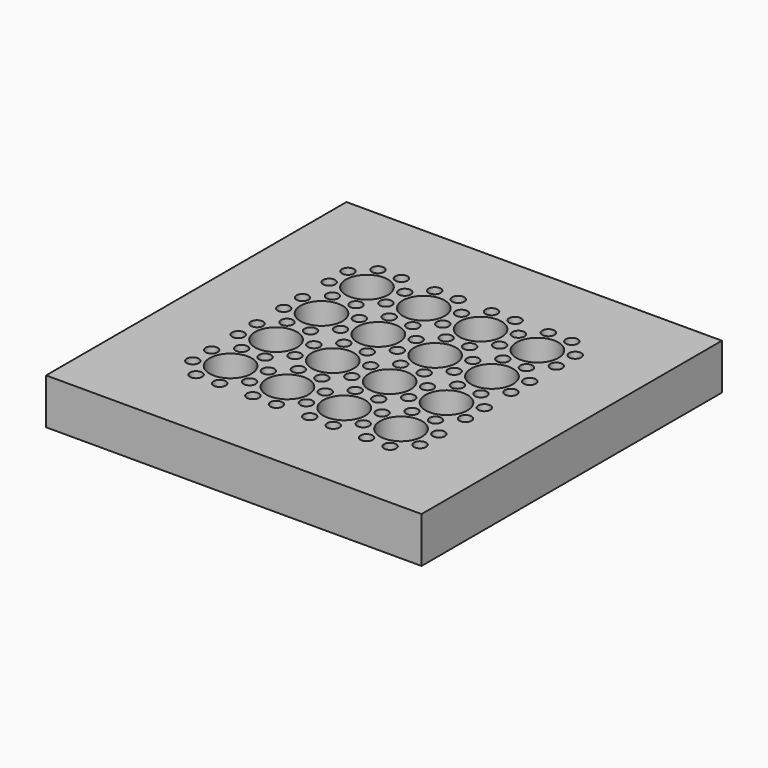
from build123d import *

# Parameters (mm, degrees)
F0_W     = 15.2
F0_H     = 15.2
F0_R     = 0.244751
F0_R_2   = 0.85
F1_DEPTH = 1.85
F2_R     = 0.85
F3_DEPTH = 0.15


with BuildPart() as f1:
    # F0 (on Top) → F1 (new body)
    with BuildSketch(Plane.XY):
        with Locations((3.45, 3.45)):
            Rectangle(F0_W, F0_H)
        with Locations((-0.476346, -1.15)):
            Circle(F0_R, mode=Mode.SUBTRACT)
        with Locations((-1.15, -0.476346)):
            Circle(F0_R, mode=Mode.SUBTRACT)
        with Locations((0.476346, -1.15)):
            Circle(F0_R, mode=Mode.SUBTRACT)
        with Locations((1.15, -0.476346)):
            Circle(F0_R, mode=Mode.SUBTRACT)
        with Locations((1.823654, -1.15)):
            Circle(F0_R, mode=Mode.SUBTRACT)
        with Locations((2.776346, -1.15)):
            Circle(F0_R, mode=Mode.SUBTRACT)
        with Locations((-1.15, 0.476346)):
            Circle(F0_R, mode=Mode.SUBTRACT)
        with Locations((-0.476346, 1.15)):
            Circle(F0_R, mode=Mode.SUBTRACT)
        with Locations((-1.15, 1.823654)):
            Circle(F0_R, mode=Mode.SUBTRACT)
        with Locations((-1.15, 2.776346)):
            Circle(F0_R, mode=Mode.SUBTRACT)
        Circle(F0_R_2, mode=Mode.SUBTRACT)
        with Locations((1.15, 0.476346)):
            Circle(F0_R, mode=Mode.SUBTRACT)
        with Locations((0.476346, 1.15)):
            Circle(F0_R, mode=Mode.SUBTRACT)
        with Locations((2.3, 0)):
            Circle(F0_R_2, mode=Mode.SUBTRACT)
        with Locations((1.823654, 1.15)):
            Circle(F0_R, mode=Mode.SUBTRACT)
        with Locations((2.776346, 1.15)):
            Circle(F0_R, mode=Mode.SUBTRACT)
        with Locations((0, 2.3)):
            Circle(F0_R_2, mode=Mode.SUBTRACT)
        with Locations((1.15, 1.823654)):
            Circle(F0_R, mode=Mode.SUBTRACT)
        with Locations((1.15, 2.776346)):
            Circle(F0_R, mode=Mode.SUBTRACT)
        with Locations((2.3, 2.3)):
            Circle(F0_R_2, mode=Mode.SUBTRACT)
        with Locations((4.123654, -1.15)):
            Circle(F0_R, mode=Mode.SUBTRACT)
        with Locations((3.45, -0.476346)):
            Circle(F0_R, mode=Mode.SUBTRACT)
        with Locations((5.076346, -1.15)):
            Circle(F0_R, mode=Mode.SUBTRACT)
        with Locations((5.75, -0.476346)):
            Circle(F0_R, mode=Mode.SUBTRACT)
        with Locations((6.423654, -1.15)):
            Circle(F0_R, mode=Mode.SUBTRACT)
        with Locations((7.376346, -1.15)):
            Circle(F0_R, mode=Mode.SUBTRACT)
        with Locations((8.05, -0.476346)):
            Circle(F0_R, mode=Mode.SUBTRACT)
        with Locations((3.45, 0.476346)):
            Circle(F0_R, mode=Mode.SUBTRACT)
        with Locations((4.6, 0)):
            Circle(F0_R_2, mode=Mode.SUBTRACT)
        with Locations((4.123654, 1.15)):
            Circle(F0_R, mode=Mode.SUBTRACT)
        with Locations((5.076346, 1.15)):
            Circle(F0_R, mode=Mode.SUBTRACT)
        with Locations((5.75, 0.476346)):
            Circle(F0_R, mode=Mode.SUBTRACT)
        with Locations((6.9, 0)):
            Circle(F0_R_2, mode=Mode.SUBTRACT)
        with Locations((6.423654, 1.15)):
            Circle(F0_R, mode=Mode.SUBTRACT)
        with Locations((3.45, 1.823654)):
            Circle(F0_R, mode=Mode.SUBTRACT)
        with Locations((4.6, 2.3)):
            Circle(F0_R_2, mode=Mode.SUBTRACT)
        with Locations((3.45, 2.776346)):
            Circle(F0_R, mode=Mode.SUBTRACT)
        with Locations((5.75, 1.823654)):
            Circle(F0_R, mode=Mode.SUBTRACT)
        with Locations((6.9, 2.3)):
            Circle(F0_R_2, mode=Mode.SUBTRACT)
        with Locations((5.75, 2.776346)):
            Circle(F0_R, mode=Mode.SUBTRACT)
        with Locations((8.05, 0.476346)):
            Circle(F0_R, mode=Mode.SUBTRACT)
        with Locations((7.376346, 1.15)):
            Circle(F0_R, mode=Mode.SUBTRACT)
        with Locations((8.05, 1.823654)):
            Circle(F0_R, mode=Mode.SUBTRACT)
        with Locations((8.05, 2.776346)):
            Circle(F0_R, mode=Mode.SUBTRACT)
        with Locations((-0.476346, 3.45)):
            Circle(F0_R, mode=Mode.SUBTRACT)
        with Locations((-1.15, 4.123654)):
            Circle(F0_R, mode=Mode.SUBTRACT)
        with Locations((-1.15, 5.076346)):
            Circle(F0_R, mode=Mode.SUBTRACT)
        with Locations((-0.476346, 5.75)):
            Circle(F0_R, mode=Mode.SUBTRACT)
        with Locations((-1.15, 6.423654)):
            Circle(F0_R, mode=Mode.SUBTRACT)
        with Locations((0.476346, 3.45)):
            Circle(F0_R, mode=Mode.SUBTRACT)
        with Locations((1.15, 4.123654)):
            Circle(F0_R, mode=Mode.SUBTRACT)
        with Locations((0, 4.6)):
            Circle(F0_R_2, mode=Mode.SUBTRACT)
        with Locations((1.15, 5.076346)):
            Circle(F0_R, mode=Mode.SUBTRACT)
        with Locations((1.823654, 3.45)):
            Circle(F0_R, mode=Mode.SUBTRACT)
        with Locations((2.776346, 3.45)):
            Circle(F0_R, mode=Mode.SUBTRACT)
        with Locations((2.3, 4.6)):
            Circle(F0_R_2, mode=Mode.SUBTRACT)
        with Locations((0.476346, 5.75)):
            Circle(F0_R, mode=Mode.SUBTRACT)
        with Locations((0, 6.9)):
            Circle(F0_R_2, mode=Mode.SUBTRACT)
        with Locations((1.15, 6.423654)):
            Circle(F0_R, mode=Mode.SUBTRACT)
        with Locations((1.823654, 5.75)):
            Circle(F0_R, mode=Mode.SUBTRACT)
        with Locations((2.776346, 5.75)):
            Circle(F0_R, mode=Mode.SUBTRACT)
        with Locations((2.3, 6.9)):
            Circle(F0_R_2, mode=Mode.SUBTRACT)
        with Locations((-1.15, 7.376346)):
            Circle(F0_R, mode=Mode.SUBTRACT)
        with Locations((-0.476346, 8.05)):
            Circle(F0_R, mode=Mode.SUBTRACT)
        with Locations((0.476346, 8.05)):
            Circle(F0_R, mode=Mode.SUBTRACT)
        with Locations((1.15, 7.376346)):
            Circle(F0_R, mode=Mode.SUBTRACT)
        with Locations((1.823654, 8.05)):
            Circle(F0_R, mode=Mode.SUBTRACT)
        with Locations((2.776346, 8.05)):
            Circle(F0_R, mode=Mode.SUBTRACT)
        with Locations((4.123654, 3.45)):
            Circle(F0_R, mode=Mode.SUBTRACT)
        with Locations((3.45, 4.123654)):
            Circle(F0_R, mode=Mode.SUBTRACT)
        with Locations((5.076346, 3.45)):
            Circle(F0_R, mode=Mode.SUBTRACT)
        with Locations((3.45, 5.076346)):
            Circle(F0_R, mode=Mode.SUBTRACT)
        with Locations((4.6, 4.6)):
            Circle(F0_R_2, mode=Mode.SUBTRACT)
        with Locations((5.75, 4.123654)):
            Circle(F0_R, mode=Mode.SUBTRACT)
        with Locations((6.423654, 3.45)):
            Circle(F0_R, mode=Mode.SUBTRACT)
        with Locations((5.75, 5.076346)):
            Circle(F0_R, mode=Mode.SUBTRACT)
        with Locations((6.9, 4.6)):
            Circle(F0_R_2, mode=Mode.SUBTRACT)
        with Locations((4.123654, 5.75)):
            Circle(F0_R, mode=Mode.SUBTRACT)
        with Locations((5.076346, 5.75)):
            Circle(F0_R, mode=Mode.SUBTRACT)
        with Locations((3.45, 6.423654)):
            Circle(F0_R, mode=Mode.SUBTRACT)
        with Locations((4.6, 6.9)):
            Circle(F0_R_2, mode=Mode.SUBTRACT)
        with Locations((6.423654, 5.75)):
            Circle(F0_R, mode=Mode.SUBTRACT)
        with Locations((5.75, 6.423654)):
            Circle(F0_R, mode=Mode.SUBTRACT)
        with Locations((6.9, 6.9)):
            Circle(F0_R_2, mode=Mode.SUBTRACT)
        with Locations((7.376346, 3.45)):
            Circle(F0_R, mode=Mode.SUBTRACT)
        with Locations((8.05, 4.123654)):
            Circle(F0_R, mode=Mode.SUBTRACT)
        with Locations((8.05, 5.076346)):
            Circle(F0_R, mode=Mode.SUBTRACT)
        with Locations((7.376346, 5.75)):
            Circle(F0_R, mode=Mode.SUBTRACT)
        with Locations((8.05, 6.423654)):
            Circle(F0_R, mode=Mode.SUBTRACT)
        with Locations((3.45, 7.376346)):
            Circle(F0_R, mode=Mode.SUBTRACT)
        with Locations((4.123654, 8.05)):
            Circle(F0_R, mode=Mode.SUBTRACT)
        with Locations((5.076346, 8.05)):
            Circle(F0_R, mode=Mode.SUBTRACT)
        with Locations((5.75, 7.376346)):
            Circle(F0_R, mode=Mode.SUBTRACT)
        with Locations((6.423654, 8.05)):
            Circle(F0_R, mode=Mode.SUBTRACT)
        with Locations((8.05, 7.376346)):
            Circle(F0_R, mode=Mode.SUBTRACT)
        with Locations((7.376346, 8.05)):
            Circle(F0_R, mode=Mode.SUBTRACT)
    extrude(amount=F1_DEPTH)

    # F2 (on face) → F3 (join)
    with BuildSketch(Plane(origin=(0, 0, 0), x_dir=(1, 0, 0), z_dir=(0, 0, -1))):
        Circle(F2_R)
        with Locations((2.3, 0)):
            Circle(F2_R)
        with Locations((4.6, 0)):
            Circle(F2_R)
        with Locations((6.9, 0)):
            Circle(F2_R)
        with Locations((0, -2.3)):
            Circle(F2_R)
        with Locations((2.3, -2.3)):
            Circle(F2_R)
        with Locations((4.6, -2.3)):
            Circle(F2_R)
        with Locations((6.9, -2.3)):
            Circle(F2_R)
        with Locations((6.9, -4.6)):
            Circle(F2_R)
        with Locations((4.6, -4.6)):
            Circle(F2_R)
        with Locations((2.3, -4.6)):
            Circle(F2_R)
        with Locations((0, -4.6)):
            Circle(F2_R)
        with Locations((0, -6.9)):
            Circle(F2_R)
        with Locations((2.3, -6.9)):
            Circle(F2_R)
        with Locations((4.6, -6.9)):
            Circle(F2_R)
        with Locations((6.9, -6.9)):
            Circle(F2_R)
    extrude(amount=-F3_DEPTH)


solid = f1.part
